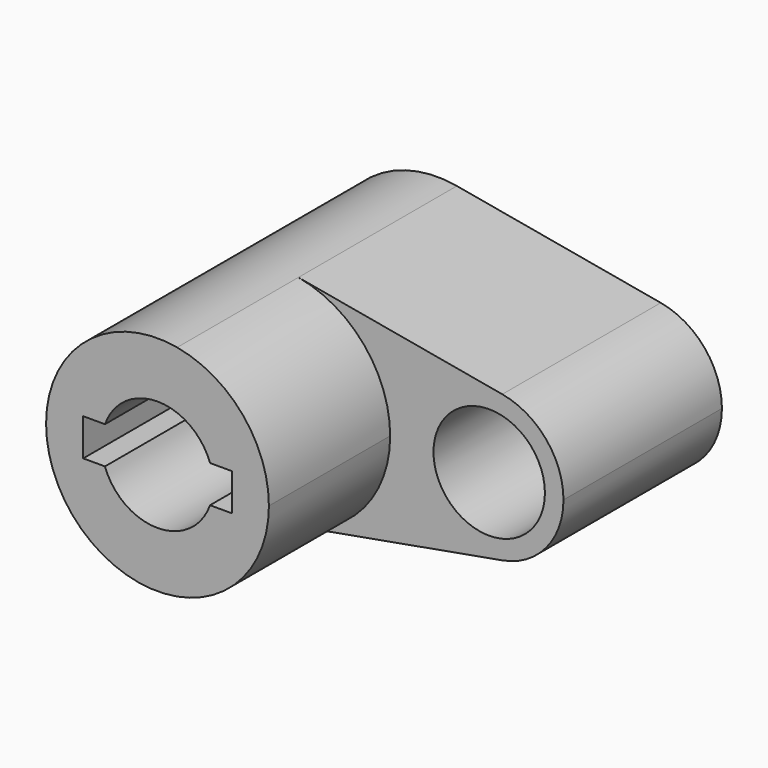
from build123d import *

# Parameters (mm, degrees)
F1_R     = 14.2875
F2_DEPTH = 50.8
F3_DEPTH = 89.67687


with BuildPart() as f2:
    # F1 (on Front) → F2 (new body)
    with BuildSketch(Plane.XZ):
        with BuildLine():
            ThreePointArc((5.042647, -28.126541), (21.916025, -18.336262), (28.575, 0))
            ThreePointArc((28.575, 0), (21.916025, 18.336262), (5.042647, 28.126541))
            ThreePointArc((5.042647, 28.126541), (-28.575, 0), (5.042647, -28.126541))
        make_face()
        with BuildLine():
            ThreePointArc((-13.470384, 4.7625), (0, 14.2875), (13.470384, 4.7625))
            Line((13.470384, 4.7625), (19.05, 4.7625))
            Line((19.05, 4.7625), (19.05, -4.7625))
            Line((19.05, -4.7625), (13.470384, -4.7625))
            ThreePointArc((13.470384, -4.7625), (0, -14.2875), (-13.470384, -4.7625))
            Line((-13.470384, -4.7625), (-19.05, -4.7625))
            Line((-19.05, -4.7625), (-19.05, 4.7625))
            Line((-19.05, 4.7625), (-13.470384, 4.7625))
        make_face(mode=Mode.SUBTRACT)
        with BuildLine():
            ThreePointArc((5.042647, 28.126541), (21.916025, 18.336262), (28.575, 0))
            ThreePointArc((28.575, 0), (21.916025, -18.336262), (5.042647, -28.126541))
            Line((5.042647, -28.126541), (57.336765, -18.751028))
            ThreePointArc((57.336765, -18.751028), (34.925, 0), (57.336765, 18.751028))
            Line((57.336765, 18.751028), (5.042647, 28.126541))
        make_face()
        with BuildLine():
            ThreePointArc((73.025, 0), (68.585683, 12.224174), (57.336765, 18.751028))
            ThreePointArc((57.336765, 18.751028), (34.925, 0), (57.336765, -18.751028))
            ThreePointArc((57.336765, -18.751028), (68.585683, -12.224174), (73.025, 0))
        make_face()
        with Locations((53.975, 0)):
            Circle(F1_R, mode=Mode.SUBTRACT)
        with BuildLine():
            ThreePointArc((13.470384, 4.7625), (14.081739, 2.416045), (14.2875, 0))
            ThreePointArc((14.2875, 0), (14.081739, -2.416045), (13.470384, -4.7625))
            Line((13.470384, -4.7625), (19.05, -4.7625))
            Line((19.05, -4.7625), (19.05, 4.7625))
            Line((19.05, 4.7625), (13.470384, 4.7625))
        make_face()
    extrude(amount=F2_DEPTH)

    # F1 (on Front) → F3 (join)
    with BuildSketch(Plane.XZ):
        with BuildLine():
            ThreePointArc((5.042647, -28.126541), (21.916025, -18.336262), (28.575, 0))
            ThreePointArc((28.575, 0), (21.916025, 18.336262), (5.042647, 28.126541))
            ThreePointArc((5.042647, 28.126541), (-28.575, 0), (5.042647, -28.126541))
        make_face()
        with BuildLine():
            ThreePointArc((-13.470384, 4.7625), (0, 14.2875), (13.470384, 4.7625))
            Line((13.470384, 4.7625), (19.05, 4.7625))
            Line((19.05, 4.7625), (19.05, -4.7625))
            Line((19.05, -4.7625), (13.470384, -4.7625))
            ThreePointArc((13.470384, -4.7625), (0, -14.2875), (-13.470384, -4.7625))
            Line((-13.470384, -4.7625), (-19.05, -4.7625))
            Line((-19.05, -4.7625), (-19.05, 4.7625))
            Line((-19.05, 4.7625), (-13.470384, 4.7625))
        make_face(mode=Mode.SUBTRACT)
    extrude(amount=F3_DEPTH)


solid = f2.part
